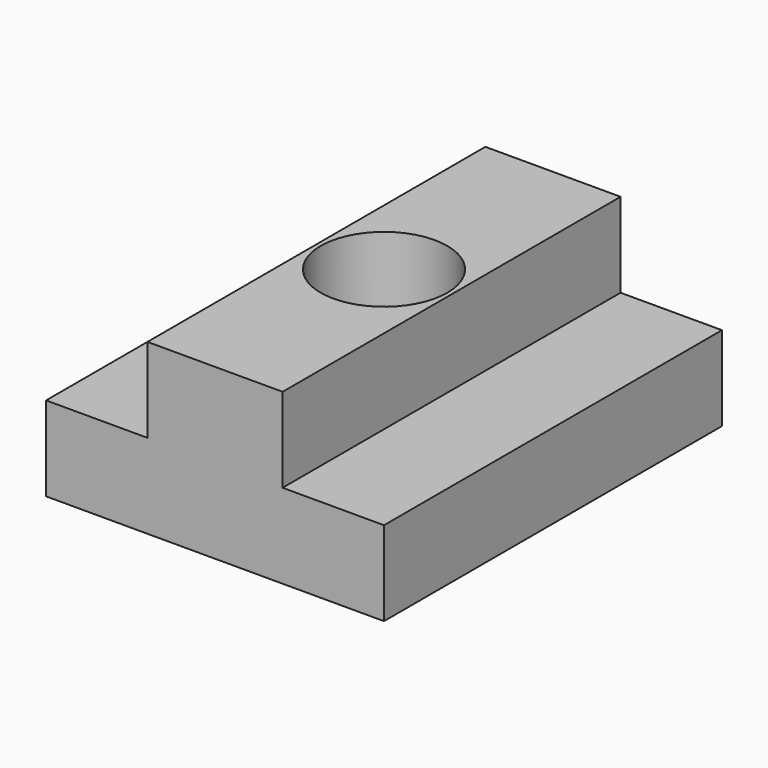
from build123d import *

# Parameters (mm, degrees)
F0_W     = 200
F0_H     = 250
F1_DEPTH = 25
F2_W     = 80
F2_H     = 250
F3_DEPTH = 50
F4_R     = 37.5
F5_DEPTH = 137


with BuildPart() as f1:
    # F0 (on Top) → F1 (new body, symmetric)
    with BuildSketch(Plane.XY):
        Rectangle(F0_W, F0_H)
    extrude(amount=F1_DEPTH, both=True)

    # F2 (on face) → F3 (join)
    with BuildSketch(Plane.XY.offset(25)):
        Rectangle(F2_W, F2_H)
    extrude(amount=F3_DEPTH)

    # F4 (on face) → F5 (cut)
    with BuildSketch(Plane.XY.offset(75)):
        Circle(F4_R)
    extrude(amount=-F5_DEPTH, mode=Mode.SUBTRACT)


solid = f1.part
